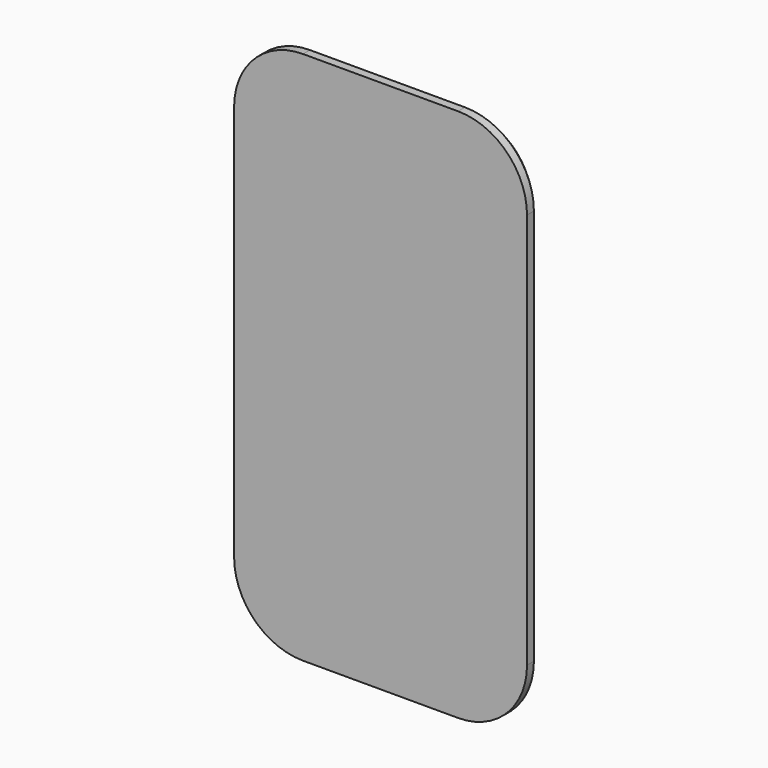
from build123d import *

# Parameters (mm, degrees)
F1_DEPTH = 3.175
F3_DEPTH = 3.175


with BuildPart() as f1:
    # F0 (on Front) → F1 (new body)
    with BuildSketch(Plane.XZ):
        with BuildLine():
            Line((50.8, -73.025), (50.8, 73.025))
            ThreePointArc((50.8, 73.025), (44.290448, 88.740448), (28.575, 95.25))
            Line((28.575, 95.25), (-28.575, 95.25))
            ThreePointArc((-28.575, 95.25), (-44.290448, 88.740448), (-50.8, 73.025))
            Line((-50.8, 73.025), (-50.8, -73.025))
            ThreePointArc((-50.8, -73.025), (-44.290448, -88.740448), (-28.575, -95.25))
            Line((-28.575, -95.25), (28.575, -95.25))
            ThreePointArc((28.575, -95.25), (44.290448, -88.740448), (50.8, -73.025))
        make_face()
    extrude(amount=F1_DEPTH)

    # F2 (on face) → F3 (join)
    with BuildSketch(Plane.XZ.offset(3.175)):
        with BuildLine():
            Line((-53.975, 73.025), (-53.975, -73.025))
            ThreePointArc((-53.975, -73.025), (-46.535512, -90.985512), (-28.575, -98.425))
            Line((-28.575, -98.425), (28.575, -98.425))
            ThreePointArc((28.575, -98.425), (46.535512, -90.985512), (53.975, -73.025))
            Line((53.975, -73.025), (53.975, 73.025))
            ThreePointArc((53.975, 73.025), (46.535512, 90.985512), (28.575, 98.425))
            Line((28.575, 98.425), (-28.575, 98.425))
            ThreePointArc((-28.575, 98.425), (-46.535512, 90.985512), (-53.975, 73.025))
        make_face()
    extrude(amount=F3_DEPTH)


solid = f1.part
